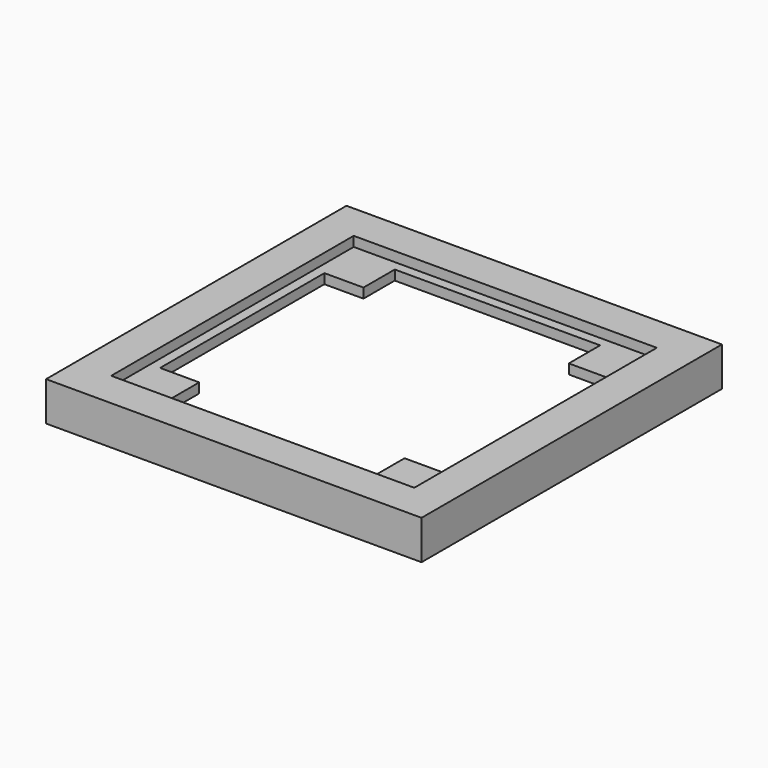
from build123d import *

# Parameters (mm, degrees)
F0_W           = 180
F0_H           = 180
F1_DEPTH       = 70
F2_T           = -5
F3_W           = 170
F3_H           = 170
F4_DEPTH       = 10
F5_W           = 155
F5_H           = 155
F6_DEPTH       = 5
F7_W           = 145
F7_H           = 145
F8_DEPTH       = 25
F9_W           = 20
F9_H           = 20
F10_DEPTH      = 5
F11_W          = 236.9226813316
F11_H          = 264.4580230117
F11_W_2        = 180
F11_H_2        = 180
F12_DEPTH      = 25
F13_W          = 243.9718917012
F13_H          = 319.6009546518
F13_W_2        = 180
F13_H_2        = 180
F14_DEPTH      = 55
F14_DEPTH_BACK = 25
F15_W          = 192
F15_H          = 192
F15_W_2        = 180
F15_H_2        = 180
F16_DEPTH      = 10
F16_DEPTH_BACK = 10
F17_DEPTH      = 5
F18_W          = 186
F18_H          = 186
F18_W_2        = 180
F18_H_2        = 180
F19_DEPTH      = 10


with BuildPart() as f1:
    # F0 (on Top) → F1 (new body)
    with BuildSketch(Plane.XY):
        Rectangle(F0_W, F0_H)
    extrude(amount=F1_DEPTH)

    # F2
    f2_openings = [f1.faces().sort_by_distance(p)[0] for p in [
        (0, 0, 70),
    ]]
    offset(amount=F2_T, openings=f2_openings)

    # F3 (on face) → F4 (join)
    with BuildSketch(Plane.XY.offset(70)):
        Rectangle(F3_W, F3_H)
    extrude(amount=-F4_DEPTH)

    # F5 (on face) → F6 (cut)
    with BuildSketch(Plane.XY.offset(70)):
        Rectangle(F5_W, F5_H)
        Rectangle(F5_W, F5_H)
    extrude(amount=-F6_DEPTH, mode=Mode.SUBTRACT)

    # F7 (on face) → F8 (cut)
    with BuildSketch(Plane.XY.offset(65)):
        Rectangle(F7_W, F7_H)
    extrude(amount=-F8_DEPTH, mode=Mode.SUBTRACT)

    # F9 (on face) → F10 (join)
    with BuildSketch(Plane.XY.offset(65)):
        with Locations((-62.5, 62.5)):
            Rectangle(F9_W, F9_H)
        with Locations((62.5, 62.5)):
            Rectangle(F9_W, F9_H)
        with Locations((62.5, -62.5)):
            Rectangle(F9_W, F9_H)
        with Locations((-62.5, -62.5)):
            Rectangle(F9_W, F9_H)
    extrude(amount=-F10_DEPTH)

    # F11 (on face) → F12 (cut)
    with BuildSketch(Plane(origin=(0, 0, 0), x_dir=(1, 0, 0), z_dir=(0, 0, -1))):
        with Locations((12.1972411871, 16.292501241)):
            Rectangle(F11_W, F11_H)
        Rectangle(F11_W_2, F11_H_2, mode=Mode.SUBTRACT)
    extrude(amount=-F12_DEPTH, mode=Mode.SUBTRACT)

    # F13 (on face) → F14 (cut, two sides)
    with BuildSketch(Plane(origin=(0, 0, 0), x_dir=(1, 0, 0), z_dir=(0, 0, -1))) as f14_sk:
        with Locations((-22.6087830961, -21.1053714156)):
            Rectangle(F13_W, F13_H)
        Rectangle(F13_W_2, F13_H_2, mode=Mode.SUBTRACT)
        Rectangle(F13_W_2, F13_H_2)
    extrude(amount=-F14_DEPTH, mode=Mode.SUBTRACT)
    extrude(f14_sk.sketch, amount=F14_DEPTH_BACK, mode=Mode.SUBTRACT)

    # F15 (on face) → F16 (join, two sides)
    with BuildSketch(Plane(origin=(0, 0, 60), x_dir=(1, 0, 0), z_dir=(0, 0, -1))) as f16_sk:
        Rectangle(F15_W, F15_H)
        Rectangle(F15_W_2, F15_H_2, mode=Mode.SUBTRACT)
    extrude(amount=F16_DEPTH)
    extrude(f16_sk.sketch, amount=-F16_DEPTH_BACK)

    # F17 (cut, through all): a face of the model
    f17_faces = [f1.faces().sort_by_distance(p)[0] for p in [
        (87.4544155877, 0, 55),
    ]]
    extrude(f17_faces, amount=-F17_DEPTH, mode=Mode.SUBTRACT)

    # F18 (on face) → F19 (cut, through all)
    with BuildSketch(Plane(origin=(0, 0, 50), x_dir=(1, 0, 0), z_dir=(0, 0, -1))):
        Rectangle(F18_W, F18_H)
        Rectangle(F18_W_2, F18_H_2, mode=Mode.SUBTRACT)
        Rectangle(F18_W_2, F18_H_2)
    extrude(amount=-F19_DEPTH, mode=Mode.SUBTRACT)


solid = f1.part
